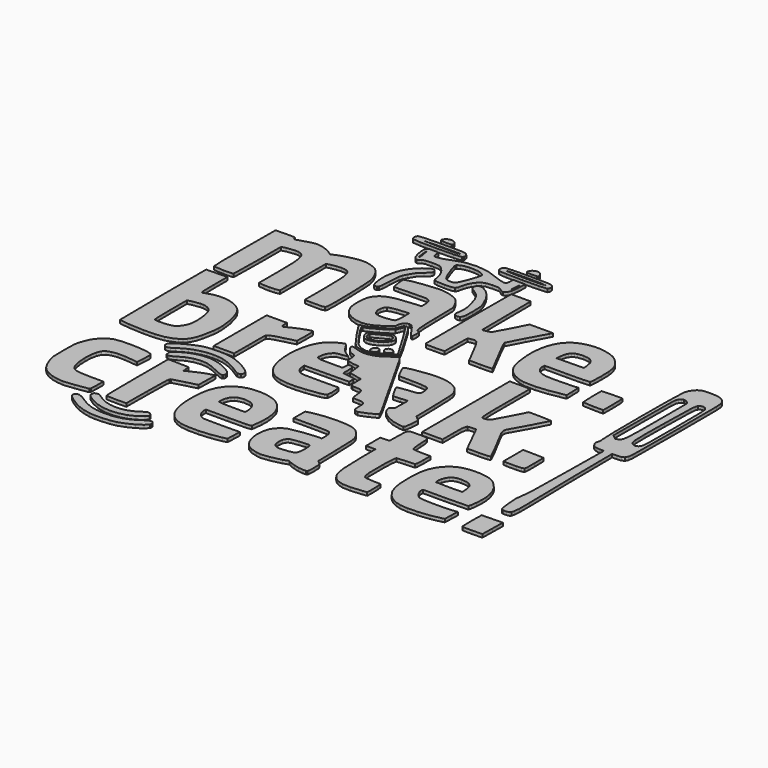
from build123d import *

# Parameters (mm, degrees)
EXTRUDE_DEPTH    = 1
EXTRUDE001_DEPTH = 1
EXTRUDE002_DEPTH = 1
EXTRUDE007_DEPTH = 1
EXTRUDE010_DEPTH = 1
EXTRUDE011_DEPTH = 1
EXTRUDE015_DEPTH = 1
EXTRUDE016_DEPTH = 1
EXTRUDE017_DEPTH = 1
EXTRUDE018_DEPTH = 1
EXTRUDE021_DEPTH = 1
EXTRUDE022_DEPTH = 1
EXTRUDE023_DEPTH = 1
EXTRUDE024_DEPTH = 1
EXTRUDE027_DEPTH = 1
EXTRUDE028_DEPTH = 1
EXTRUDE035_DEPTH = 1
EXTRUDE036_DEPTH = 1
EXTRUDE037_DEPTH = 1
EXTRUDE038_DEPTH = 1
EXTRUDE039_DEPTH = 1
EXTRUDE048_DEPTH = 1
EXTRUDE049_DEPTH = 1
EXTRUDE004_DEPTH = 1
EXTRUDE003_DEPTH = 1
EXTRUDE006_DEPTH = 1
EXTRUDE005_DEPTH = 1
EXTRUDE009_DEPTH = 1
EXTRUDE008_DEPTH = 1
EXTRUDE014_DEPTH = 1
EXTRUDE013_DEPTH = 1
EXTRUDE012_DEPTH = 1
EXTRUDE020_DEPTH = 1
EXTRUDE019_DEPTH = 1
EXTRUDE032_DEPTH = 1
EXTRUDE031_DEPTH = 1
EXTRUDE034_DEPTH = 1
EXTRUDE033_DEPTH = 1
EXTRUDE042_DEPTH = 1
EXTRUDE043_DEPTH = 1
EXTRUDE041_DEPTH = 1
EXTRUDE040_DEPTH = 1
EXTRUDE045_DEPTH = 1
EXTRUDE044_DEPTH = 1
EXTRUDE047_DEPTH = 1
EXTRUDE046_DEPTH = 1
EXTRUDE026_DEPTH = 1
EXTRUDE025_DEPTH = 1
EXTRUDE030_DEPTH = 1
EXTRUDE029_DEPTH = 1


with BuildPart() as extrude_body:
    # Face → Extrude (new body)
    with BuildSketch(Plane(origin=(71.90857, 102.631096, 0), x_dir=(0, -1, 0), z_dir=(0, 0, -1))):
        Polygon((2.521866, 3.007925), (2.068389, 5.107321), (1.397596, 7.013538), (0.442838, 8.881305), (-0.862534, 10.865355), (-1.550903, 11.701456), (-2.166958, 12.188761), (-2.714648, 12.329403), (-3.197924, 12.125515), (-3.525371, 11.625183), (-3.493726, 10.917146), (-3.087401, 9.941467), (-2.290804, 8.638205), (-1.120387, 6.705597), (-0.346118, 4.912925), (0.109441, 3.028671), (0.323726, 0.821315), (0.257545, -2.097342), (-0.250919, -4.746574), (-1.21668, -7.178131), (-2.654754, -9.443765), (-3.309694, -10.487394), (-3.582104, -11.290535), (-3.437426, -11.830266), (-3.064899, -12.199571), (-2.556787, -12.344569), (-2.005354, -12.211375), (-0.958925, -11.224133), (0.2001, -9.487735), (1.265118, -7.361044), (2.029526, -5.202925), (2.389116, -3.298925), (2.606731, -1.034009), (2.658829, 1.199162), align=None)
    extrude(amount=EXTRUDE_DEPTH)


with BuildPart() as extrude001:
    # Face001 → Extrude001 (new body)
    with BuildSketch(Plane(origin=(72.045447, 106.554676, 0), x_dir=(0, -1, 0), z_dir=(0, 0, -1))):
        Polygon((2.182926, 2.113652), (1.595082, 4.424488), (0.58478, 6.689826), (-0.577527, 8.413144), (-1.131165, 8.916383), (-1.621384, 9.097922), (-2.399004, 8.891813), (-2.77251, 8.340917), (-2.717926, 7.546384), (-2.211274, 6.609362), (-1.258993, 5.132498), (-0.565266, 3.567537), (-0.130895, 1.944756), (0.043316, 0.294433), (-0.043435, -1.353156), (-0.391952, -2.967733), (-1.003037, -4.519023), (-1.877494, -5.976748), (-2.552691, -7.066279), (-2.833524, -7.817118), (-2.726448, -8.241733), (-2.461193, -8.678879), (-2.121715, -9.020448), (-1.791974, -9.158328), (-1.311057, -8.952684), (-0.689394, -8.401449), (0.599426, -6.656378), (1.515331, -4.665255), (2.089876, -2.510381), (2.315071, -0.235997), align=None)
    extrude(amount=EXTRUDE001_DEPTH)


with BuildPart() as extrude002:
    # Face002 → Extrude002 (new body)
    with BuildSketch(Plane(origin=(51.139674, 122.033326, 0), x_dir=(0, -1, 0), z_dir=(0, 0, -1))):
        Polygon((12.633626, -0.114581), (12.271635, 1.563776), (11.619022, 3.154762), (10.737406, 4.538886), (9.688406, 5.596659), (8.293321, 6.400409), (6.458586, 7.165069), (5.167235, 7.571226), (3.980656, 7.791904), (-0.054874, 7.899799), (-4.118033, 7.785823), (-5.31121, 7.549526), (-6.657814, 7.108289), (-8.719785, 6.211906), (-10.253104, 4.993069), (-11.47375, 3.581877), (-12.19171, 2.031866), (-12.521659, -0.054961), (-12.578274, -3.076601), (-12.467954, -6.054874), (-12.21823, -8.252239), (-11.834634, -9.637424), (-11.594361, -10.015678), (-11.322694, -10.179161), (-8.582854, -10.089661), (-6.349154, -9.903591), (-6.494304, -9.177851), (-6.820914, -5.817321), (-6.857757, -3.590284), (-6.628327, -1.824606), (-6.130977, -0.513323), (-5.364064, 0.350529), (-4.128268, 0.887704), (-2.340445, 1.226816), (-0.238397, 1.340206), (1.940076, 1.200209), (3.404911, 0.970494), (4.547268, 0.666461), (5.406341, 0.230998), (6.021326, -0.393009), (6.431419, -1.262671), (6.675814, -2.435102), (6.824296, -5.916721), (6.824296, -9.955741), (9.309156, -9.955741), (11.505586, -9.86562), (11.831288, -9.651869), (11.974706, -9.235791), (12.522778, -5.537642), (12.874936, -2.160591), (12.633626, -0.114561), align=None)
    extrude(amount=EXTRUDE002_DEPTH)


with BuildPart() as extrude007:
    # Face007 → Extrude007 (new body)
    with BuildSketch(Plane(origin=(139.822277, 125.366044, 0), x_dir=(0, -1, 0), z_dir=(0, 0, -1))):
        Polygon((15.974494, -0.469943), (15.562108, 0.912029), (14.929478, 2.038041), (14.045843, 2.949423), (12.880444, 3.687507), (11.48787, 4.096377), (9.169083, 4.3932), (1.889034, 4.638917), (-3.336486, 4.643917), (-3.336486, 6.099127), (-3.336486, 7.554337), (-6.100786, 7.554337), (-8.865076, 7.554337), (-8.945076, 6.165277), (-9.025076, 4.776217), (-12.369666, 4.702417), (-14.583587, 4.631605), (-15.238122, 4.520959), (-15.659132, 4.297531), (-15.897687, 3.914354), (-16.004855, 3.324462), (-16.029306, 1.336667), (-16.004976, -0.608131), (-15.901903, -1.188232), (-15.67364, -1.569333), (-15.271745, -1.79833), (-14.647779, -1.92212), (-12.539876, -2.041673), (-10.050289, -2.23756), (-9.125276, -2.542663), (-8.965614, -3.550459), (-8.896836, -5.476353), (-8.892836, -8.056043), (-6.143016, -8.056043), (-4.005832, -7.979339), (-3.487525, -7.876733), (-3.284506, -7.725313), (-3.100676, -4.884323), (-2.925236, -2.211793), (-1.521484, -2.022489), (1.555894, -1.887172), (7.441894, -1.924883), (8.89244, -2.162645), (9.690854, -2.456373), (9.959699, -3.367193), (10.116014, -5.274793), (10.207114, -7.759623), (11.571174, -7.927523), (14.256114, -8.009623), (15.576984, -7.923823), (15.743104, -6.733203), (16.07133, -3.060678), (15.974344, -0.469563), align=None)
    extrude(amount=EXTRUDE007_DEPTH)


with BuildPart() as extrude010:
    # Face010 → Extrude010 (new body)
    with BuildSketch(Plane(origin=(71.060285, 123.967556, 0), x_dir=(0, -1, 0), z_dir=(0, 0, -1))):
        Polygon((14.143806, 4.60702), (14.144036, 4.60703), (13.510249, 4.767462), (11.509876, 4.869066), (1.849416, 4.93776), (-10.307764, 4.93776), (-10.233464, 1.69662), (-10.159164, -1.54453), (-9.034684, -1.62593), (-7.910204, -1.78372), (-8.928984, -3.95132), (-10.04194, -6.471978), (-10.671664, -8.63037), (-10.834814, -9.36618), (-7.587864, -9.29178), (-4.340904, -9.21748), (-3.514904, -5.91019), (-2.494564, -2.1436), (-2.16088, -1.892789), (-1.035009, -1.745539), (5.941156, -1.61444), (14.182506, -1.54454), (14.232006, 1.36588), align=None)
    extrude(amount=EXTRUDE010_DEPTH)


with BuildPart() as extrude011:
    # Face011 → Extrude011 (new body)
    with BuildSketch(Plane(origin=(180.317273, 113.916341, 0), x_dir=(0, -1, 0), z_dir=(0, 0, -1))):
        Polygon((3.663591, 3.215153), (-0.247449, 3.276253), (-3.805979, 3.202053), (-3.880279, -0.046217), (-3.954579, -3.294487), (-0.043779, -3.221187), (3.867031, -3.147887), (3.941631, -0.033967), (3.92624, 2.452641), (3.829948, 3.001429), (3.663701, 3.215223), align=None)
    extrude(amount=EXTRUDE011_DEPTH)


with BuildPart() as extrude015:
    # Face015 → Extrude015 (new body)
    with BuildSketch(Plane(origin=(72.940933, 138.680036, 0), x_dir=(0, -1, 0), z_dir=(0, 0, -1))):
        Polygon((2.657116, 8.758688), (1.725306, 8.935078), (1.299118, 8.872992), (0.914303, 8.633303), (-0.086584, 7.300518), (-0.951254, 5.775323), (-1.608303, 4.20363), (-2.056742, 2.597508), (-2.295585, 0.969028), (-2.323846, -0.66974), (-2.140537, -2.306726), (-1.744672, -3.92986), (-1.135264, -5.527072), (-0.338083, -7.11009), (0.404903, -8.208748), (1.115343, -8.848948), (1.814886, -9.056592), (2.504956, -8.915155), (2.670638, -8.714677), (2.715881, -8.406642), (2.442433, -7.404749), (1.679386, -5.783172), (0.727892, -3.650022), (0.175226, -1.912842), (0.022926, 0.125187), (0.288995, 2.196342), (0.95404, 4.215423), (1.998666, 6.097228), (2.488566, 6.936842), (2.772446, 7.704097), (2.834049, 8.333282), align=None)
    extrude(amount=EXTRUDE015_DEPTH)


with BuildPart() as extrude016:
    # Face016 → Extrude016 (new body)
    with BuildSketch(Plane(origin=(72.965579, 142.565757, 0), x_dir=(0, -1, 0), z_dir=(0, 0, -1))):
        Polygon((3.034227, 12.124464), (2.552544, 12.270612), (2.110627, 12.238694), (1.628565, 11.88967), (1.04918, 11.212284), (-0.246844, 9.154203), (-1.468005, 6.628), (-2.304863, 4.197224), (-2.558407, 2.353413), (-2.663863, -0.036106), (-2.558407, -2.425626), (-2.304863, -4.269446), (-1.795751, -5.881354), (-1.055867, -7.643523), (-0.178401, -9.355762), (0.743457, -10.817876), (1.689953, -11.927577), (2.07356, -12.145591), (2.482407, -12.206946), (2.954682, -12.132276), (3.285642, -11.904245), (3.480439, -11.516822), (3.544227, -10.963976), (3.270146, -10.303918), (2.611187, -9.286996), (1.744232, -7.931048), (0.948206, -6.364168), (0.2989, -4.753013), (-0.127893, -3.264236), (-0.369626, -1.671227), (-0.434659, -0.042997), (-0.327897, 1.59811), (-0.054244, 3.229752), (0.381395, 4.829582), (0.974116, 6.375259), (1.719015, 7.844438), (2.611187, 9.214774), (3.226897, 10.210887), (3.505424, 11.047012), (3.442593, 11.69444), align=None)
    extrude(amount=EXTRUDE016_DEPTH)


with BuildPart() as extrude017:
    # Face017 → Extrude017 (new body)
    with BuildSketch(Plane(origin=(111.754366, 156.956975, 0), x_dir=(0, -1, 0), z_dir=(0, 0, -1))):
        Polygon((15.268425, -6.689514), (15.056802, -6.462018), (14.694361, -6.319434), (13.225945, -6.222444), (11.832934, -6.165097), (11.058901, -5.90353), (10.717748, -5.292203), (10.623375, -4.185574), (10.557275, -2.351424), (9.950734, -2.079543), (8.392885, -1.859314), (6.953918, -1.666506), (6.164724, -1.27653), (5.832555, -0.486574), (5.764665, 0.906176), (5.705594, 1.793095), (5.396726, 2.271814), (4.640583, 2.467358), (3.239685, 2.504756), (1.551725, 2.504756), (1.312325, 3.496946), (0.839105, 5.544406), (0.605285, 6.599676), (-1.379085, 6.867316), (-3.363465, 7.134966), (-3.586265, 8.986486), (-3.83361, 10.351391), (-4.115425, 11.032956), (-5.347835, 11.235566), (-6.349021, 11.293025), (-7.002131, 11.461339), (-7.357261, 11.763885), (-7.464505, 12.224041), (-7.761687, 12.995493), (-8.474881, 13.890605), (-9.336563, 14.631469), (-10.079205, 14.940181), (-10.467668, 14.902493), (-10.597481, 14.67355), (-10.082205, 12.946631), (-9.774917, 11.824748), (-9.641925, 10.69259), (-9.683154, 9.550452), (-9.898525, 8.398629), (-10.287962, 7.237418), (-10.851387, 6.067113), (-12.499895, 3.700406), (-13.227688, 2.816508), (-13.331186, 2.4999), (-13.196822, 2.188516), (-12.021731, 1.346414), (-9.316845, -0.179814), (-1.908515, -4.365144), (5.764405, -8.674494), (11.176405, -11.732524), (13.197905, -12.693234), (13.713288, -11.889853), (14.505916, -10.294373), (15.545945, -7.671824), (15.268215, -6.689514), align=None)
    extrude(amount=EXTRUDE017_DEPTH)


with BuildPart() as extrude018:
    # Face018 → Extrude018 (new body)
    with BuildSketch(Plane(origin=(126.116391, 156.914868, 0), x_dir=(0, -1, 0), z_dir=(0, 0, -1))):
        Polygon((14.530778, -5.490509), (14.058977, -3.278658), (13.151026, -1.18487), (11.95891, 0.516208), (11.303787, 1.133654), (10.634618, 1.549931), (9.763155, 1.908029), (9.211812, 2.006379), (8.871449, 1.836187), (8.632928, 1.388661), (8.440584, 1.01446), (8.070964, 0.817177), (5.847548, 0.727201), (3.313648, 0.727201), (3.492078, 2.926261), (3.670518, 5.125321), (1.836338, 6.233551), (-0.291642, 7.341781), (-0.510224, 7.196486), (-0.689512, 6.700769), (-1.015622, 4.299071), (-1.234276, 2.244331), (-1.446541, 1.182794), (-1.773809, 0.786427), (-2.337472, 0.727201), (-3.458036, 0.78657), (-4.288061, 0.971301), (-4.855043, 1.291332), (-5.186482, 1.756601), (-5.394815, 3.442947), (-5.496512, 6.527871), (-5.522312, 10.608761), (-7.374402, 11.616751), (-9.476642, 12.545711), (-9.855497, 11.960155), (-10.244883, 10.511732), (-10.957872, 5.490121), (-11.088169, 3.420669), (-11.044218, 1.559656), (-10.825749, -0.093669), (-10.432493, -1.54006), (-9.86418, -2.780272), (-9.12054, -3.815056), (-8.201304, -4.645168), (-7.106202, -5.271359), (-6.296344, -5.516917), (-4.926377, -5.679399), (1.187918, -5.879299), (8.427318, -6.019679), (9.141028, -6.875189), (9.854738, -7.730699), (12.088088, -7.562619), (14.165042, -7.243252), (14.601626, -6.996741), (14.669778, -6.681139), (14.530748, -5.490509), align=None)
    extrude(amount=EXTRUDE018_DEPTH)


with BuildPart() as extrude021:
    # Face021 → Extrude021 (new body)
    with BuildSketch(Plane(origin=(96.061819, 152.861968, 0), x_dir=(0, -1, 0), z_dir=(0, 0, -1))):
        Polygon((10.001208, 1.819244), (9.621791, 3.133971), (9.084505, 4.298338), (8.383695, 5.317128), (7.513708, 6.195124), (6.46889, 6.93711), (5.243589, 7.547868), (3.832149, 8.032182), (2.228918, 8.394834), (0.087375, 8.67175), (-2.0576, 8.751305), (-4.156673, 8.642979), (-6.160507, 8.356254), (-8.019768, 7.90061), (-9.685119, 7.285528), (-11.107226, 6.520489), (-12.236752, 5.614974), (-13.085474, 4.595595), (-13.893158, 3.361999), (-14.497092, 2.191321), (-14.734562, 1.360694), (-14.339957, 0.823053), (-13.213202, 0.140534), (-11.835197, -0.742145), (-10.898102, -2.000296), (-9.936732, -3.389356), (-9.657462, -1.644616), (-9.415364, -0.027893), (-9.1149, 0.459314), (-8.594102, 0.981134), (-7.579493, 1.687228), (-6.429232, 2.035234), (-5.249205, 2.155052), (-4.890684, 2.055599), (-4.653251, 1.782183), (-4.441932, 0.510287), (-4.415812, -2.066976), (-4.415812, -6.044041), (-5.474142, -6.044041), (-6.374568, -6.157852), (-6.506331, -6.386641), (-6.532472, -6.806931), (-6.42778, -7.355564), (-6.029233, -7.685267), (-5.210126, -7.847197), (-3.843752, -7.892511), (-2.345652, -7.896511), (-2.172632, -9.020991), (-1.900567, -10.751114), (-1.675001, -11.585976), (-1.32674, -11.849413), (-0.686592, -11.865261), (0.337908, -11.865261), (0.408408, -4.919951), (0.478908, 2.025374), (1.263368, 1.967774), (2.1653, 1.816326), (2.932598, 1.509628), (3.548718, 1.056745), (3.997118, 0.466744), (4.230373, -0.159033), (4.358904, -1.212352), (4.390518, -6.077421), (4.333418, -11.798951), (5.316598, -11.961491), (7.383827, -12.121057), (8.903608, -11.977091), (9.270794, -11.404991), (9.580808, -10.058861), (10.119923, -6.14932), (10.364987, -2.999416), (10.323053, -0.409811), (10.001178, 1.818834), align=None)
    extrude(amount=EXTRUDE021_DEPTH)


with BuildPart() as extrude022:
    # Face022 → Extrude022 (new body)
    with BuildSketch(Plane(origin=(146.522629, 157.753414, 0), x_dir=(0, -1, 0), z_dir=(0, 0, -1))):
        Polygon((-2.302486, 8.168849), (-19.368116, 8.168849), (-19.368116, 4.993849), (-19.368116, 1.818849), (-9.834806, 1.818849), (-3.814974, 1.804854), (-0.905354, 1.635566), (-0.289585, 1.433014), (-0.058626, 1.12003), (-0.227476, 0.067289), (-0.451325, -0.524434), (-1.058986, -1.092674), (-5.017036, -3.266231), (-9.578526, -5.635411), (-9.578526, -9.184321), (-9.402986, -12.733221), (-4.661066, -10.279882), (0.562924, -7.363261), (1.319118, -6.968697), (2.096333, -6.90296), (3.056674, -7.186353), (4.362244, -7.839181), (10.655765, -11.160766), (14.469944, -12.997801), (14.69155, -12.126966), (14.763134, -9.431051), (14.763134, -5.864291), (10.132924, -3.556471), (5.502724, -1.248651), (5.502724, -0.226671), (5.579632, 0.955479), (5.761866, 1.319023), (6.116487, 1.562793), (7.572485, 1.786757), (10.406824, 1.818859), (14.763134, 1.818859), (14.763134, 4.993859), (14.763134, 8.168859), align=None)
    extrude(amount=EXTRUDE022_DEPTH)


with BuildPart() as extrude023:
    # Face023 → Extrude023 (new body)
    with BuildSketch(Plane(origin=(166.728909, 147.04216, 0), x_dir=(0, -1, 0), z_dir=(0, 0, -1))):
        Polygon((3.87605, 2.247529), (3.75535, 3.239719), (-0.07328, 3.239719), (-3.90191, 3.239719), (-3.82761, -0.001431), (-3.75331, -3.242571), (-0.20265, -3.316671), (2.370861, -3.3032), (3.57221, -3.166601), (3.75621, -2.407125), (3.888487, -0.889861), (3.87607, 2.247579), align=None)
    extrude(amount=EXTRUDE023_DEPTH)


with BuildPart() as extrude024:
    # Face024 → Extrude024 (new body)
    with BuildSketch(Plane(origin=(75.483457, 158.776327, 0), x_dir=(0, -1, 0), z_dir=(0, 0, -1))):
        Polygon((1.763137, 5.127602), (-8.555613, 5.127602), (-8.555613, 1.952602), (-8.555613, -1.222398), (-7.512903, -1.222398), (-6.73949, -1.28781), (-6.350234, -1.501712), (-6.327003, -1.890602), (-6.651663, -2.480978), (-7.313828, -3.735624), (-8.11888, -5.624692), (-8.798605, -7.47304), (-9.084783, -8.605528), (-9.023873, -8.928395), (-8.654049, -9.089903), (-5.865113, -9.101898), (-2.645433, -9.027598), (-1.818273, -5.720298), (-1.19672, -3.375519), (-0.714603, -2.000572), (-0.264766, -1.364193), (0.259947, -1.235118), (6.459487, -1.251618), (12.081887, -1.222318), (12.081887, 1.952682), (12.081887, 5.127682), align=None)
    extrude(amount=EXTRUDE024_DEPTH)


with BuildPart() as extrude027:
    # Face027 → Extrude027 (new body)
    with BuildSketch(Plane(origin=(102.353236, 169.537373, 0), x_dir=(0, -1, 0), z_dir=(0, 0, -1))):
        Polygon((0.551733, 1.024486), (-0.258805, 1.062875), (-0.896398, 0.658391), (-1.187628, 0.007989), (-1.149164, -0.347882), (-0.959077, -0.691374), (-0.577705, -0.959507), (-0.082985, -1.062588), (0.420845, -0.996737), (0.829543, -0.758074), (1.103797, -0.290107), (1.137237, 0.23789), (0.947377, 0.713534), (0.551733, 1.024446), align=None)
    extrude(amount=EXTRUDE027_DEPTH)


with BuildPart() as extrude028:
    # Face028 → Extrude028 (new body)
    with BuildSketch(Plane(origin=(105.310946, 171.21306, 0), x_dir=(0, -1, 0), z_dir=(0, 0, -1))):
        Polygon((1.05899, 0.496136), (0.41842, 1.100766), (-0.010164, 1.237406), (-0.396983, 1.196076), (-0.965996, 0.716093), (-1.129967, -0.066008), (-1.010481, -0.484986), (-0.73024, -0.877054), (-0.337097, -1.179827), (0.036608, -1.269934), (0.408786, -1.146576), (0.79735, -0.808954), (1.184393, -0.187636), (1.05899, 0.496156), align=None)
    extrude(amount=EXTRUDE028_DEPTH)


with BuildPart() as extrude035:
    # Face035 → Extrude035 (new body)
    with BuildSketch(Plane(origin=(61.174937, 192.858103, 0), x_dir=(0, -1, 0), z_dir=(0, 0, -1))):
        Polygon((13.360873, 17.003852), (10.300385, 17.198076), (1.167193, 17.214002), (-10.854051, 17.145102), (-10.928591, 14.036242), (-10.916598, 11.366901), (-10.764824, 10.995056), (-10.46557, 10.927392), (-10.07857, 10.848843), (-9.980138, 10.475393), (-10.721757, 8.016972), (-11.277461, 6.156626), (-11.508827, 4.841972), (-11.386202, 3.622289), (-11.054435, 2.281222), (-10.569109, 0.997335), (-9.985806, -0.050808), (-9.234236, -1.117068), (-9.851681, -2.477778), (-10.425105, -4.072726), (-10.958132, -6.098199), (-11.351742, -8.121544), (-11.506917, -9.710108), (-11.400313, -10.918157), (-11.099769, -12.203523), (-10.642293, -13.442937), (-10.064889, -14.513128), (-9.19438, -15.399526), (-7.86855, -16.243529), (-6.282458, -16.941824), (-4.631164, -17.391098), (-1.405453, -17.626402), (4.044878, -17.812992), (9.404063, -17.89362), (12.356333, -17.811038), (12.88123, -17.685802), (13.176497, -17.494122), (13.395393, -16.516028), (13.400393, -13.348128), (13.313393, -11.297608), (5.981543, -11.297608), (-0.186209, -11.197703), (-2.19697, -11.027435), (-3.622503, -10.736609), (-4.560446, -10.294969), (-5.108438, -9.672254), (-5.364116, -8.838207), (-5.425117, -7.762568), (-5.320427, -6.226776), (-5.075883, -4.815318), (-4.731752, -3.492398), (4.245573, -3.492398), (13.222903, -3.492398), (13.457143, -2.017548), (13.567012, -0.457085), (13.502243, 1.223602), (13.313083, 2.989892), (5.991963, 2.990892), (-0.181652, 3.105711), (-2.21153, 3.294331), (-3.661793, 3.611511), (-4.626195, 4.088065), (-5.198491, 4.754809), (-5.472434, 5.642556), (-5.541779, 6.782122), (-5.186114, 9.405562), (-4.832273, 10.662332), (3.798443, 10.666332), (13.004413, 10.824232), (13.324846, 10.974544), (13.494113, 11.367165), (13.556433, 13.851622), (13.360753, 17.003732), align=None)
    extrude(amount=EXTRUDE035_DEPTH)


with BuildPart() as extrude036:
    # Face036 → Extrude036 (new body)
    with BuildSketch(Plane(origin=(117.987, 194.116584, 0), x_dir=(0, -1, 0), z_dir=(0, 0, -1))):
        Polygon((14.027094, 8.07565), (-2.848696, 8.14895), (-19.120569, 8.07585), (-19.120569, 5.03314), (-19.120569, 1.99044), (-9.526825, 1.92094), (0.066924, 1.85154), (-0.104086, 0.73036), (-0.482776, -0.6554), (-5.071536, -3.16894), (-9.452619, -5.4179), (-9.457919, -9.06271), (-9.463219, -12.70753), (-8.603323, -12.26434), (-3.057947, -9.21484), (1.942304, -6.60852), (4.400574, -7.76581), (14.462024, -12.95852), (14.555224, -9.33247), (14.481624, -5.70642), (9.983704, -3.3967), (7.198985, -1.932211), (5.793243, -0.982739), (5.478969, -0.576973), (5.355216, -0.15097), (5.473644, 0.96041), (5.639684, 1.84545), (10.060654, 1.91795), (14.481624, 1.99045), (14.556324, 4.95981), (14.540354, 7.55193), (14.369, 7.936349), (14.027164, 8.07558), align=None)
    extrude(amount=EXTRUDE036_DEPTH)


with BuildPart() as extrude037:
    # Face037 → Extrude037 (new body)
    with BuildSketch(Plane(origin=(162.329361, 183.384766, 0), x_dir=(0, -1, 0), z_dir=(0, 0, -1))):
        Polygon((3.705596, 3.161701), (-0.097564, 3.338081), (-3.724344, 3.338081), (-3.852294, 0.229231), (-3.869994, -3.078059), (-2.669756, -3.218207), (0.061126, -3.276499), (3.881966, -3.276499), (3.881966, -0.145599), (3.705576, 3.161701), align=None)
    extrude(amount=EXTRUDE037_DEPTH)


with BuildPart() as extrude038:
    # Face038 → Extrude038 (new body)
    with BuildSketch(Plane(origin=(82.793325, 204.403755, 0), x_dir=(0, -1, 0), z_dir=(0, 0, -1))):
        Polygon((8.106475, 2.11329), (7.212107, 2.416875), (5.609938, 2.69187), (3.611327, 2.806545), (1.696679, 2.664272), (-0.115689, 2.273483), (-1.80746, 1.642607), (-3.360317, 0.780077), (-4.755943, -0.305678), (-5.976021, -1.606228), (-7.002234, -3.11314), (-7.283644, -3.820388), (-7.246955, -4.381858), (-6.901571, -4.774079), (-6.256896, -4.97358), (-5.872568, -4.950652), (-5.490493, -4.741597), (-4.421941, -3.51837), (-3.078346, -2.076636), (-1.184001, -0.92399), (0.067086, -0.31319), (1.067878, 0.011506), (4.362692, 0.22662), (6.912408, 0.371329), (8.166085, 0.58974), (8.412531, 0.92664), (8.482886, 1.3404), (8.37994, 1.759717), (8.106485, 2.11329), align=None)
    extrude(amount=EXTRUDE038_DEPTH)


with BuildPart() as extrude039:
    # Face039 → Extrude039 (new body)
    with BuildSketch(Plane(origin=(105.485935, 204.520297, 0), x_dir=(0, -1, 0), z_dir=(0, 0, -1))):
        Polygon((8.182317, -0.460065), (7.772319, -0.196206), (7.391792, -0.167045), (6.295041, -0.428403), (4.961461, -0.49568), (3.476067, -0.387327), (1.923875, -0.121795), (-1.040835, 0.807), (-2.283323, 1.43336), (-3.252543, 2.143095), (-4.357684, 3.662355), (-4.830166, 4.458387), (-5.290053, 4.948248), (-5.77638, 5.16092), (-6.328183, 5.125385), (-6.83846, 4.831188), (-7.140198, 4.308678), (-7.207365, 3.641788), (-7.013928, 2.914455), (-6.088909, 1.422949), (-4.746139, 0.088826), (-2.988999, -1.085177), (-0.82087, -2.096325), (0.2953, -2.495895), (1.302631, -2.719194), (4.405457, -2.837635), (6.57787, -2.789201), (7.855992, -2.597109), (8.460809, -2.191175), (8.613307, -1.501215), (8.486706, -0.943684), align=None)
    extrude(amount=EXTRUDE039_DEPTH)


with BuildPart() as extrude048:
    # Face048 → Extrude048 (new body)
    with BuildSketch(Plane(origin=(80.652815, 225.380881, 0), x_dir=(0, -1, 0), z_dir=(0, 0, -1))):
        Polygon((0.73307, 1.73606), (0.455586, 1.952045), (0.02046, 1.859495), (-0.454874, 1.514817), (-0.852982, 0.97442), (-1.098836, 0.00247), (-0.920725, -0.918085), (-0.39833, -1.60446), (0.388668, -1.87387), (0.658324, -1.821372), (0.809706, -1.596072), (0.878048, -0.22023), align=None)
    extrude(amount=EXTRUDE048_DEPTH)


with BuildPart() as extrude049:
    # Face049 → Extrude049 (new body)
    with BuildSketch(Plane(origin=(107.397526, 225.412638, 0), x_dir=(0, -1, 0), z_dir=(0, 0, -1))):
        Polygon((0.401526, 1.852086), (-0.175579, 1.690664), (-0.68472, 1.267287), (-1.047613, 0.673287), (-1.185973, -4e-06), (-1.047613, -0.673294), (-0.68472, -1.26729), (-0.175579, -1.690664), (0.401526, -1.852084), (0.686189, -1.79834), (0.845648, -1.554428), (0.930693, -4e-06), (0.845647, 1.554429), (0.686188, 1.798342), align=None)
    extrude(amount=EXTRUDE049_DEPTH)


with BuildPart() as extrude004:
    # Face004 → Extrude004 (new body)
    with BuildSketch(Plane(origin=(118.09301, 117.464133, 0), x_dir=(0, 1, 0), z_dir=(0, 0, 1))):
        Polygon((-2.754213, -1.4056), (-2.463029, -2.601348), (-1.944891, -3.258027), (-0.939639, -3.535098), (0.812887, -3.59202), (2.437491, -3.505192), (2.791682, -3.368755), (2.959677, -3.1455), (2.993896, -2.048247), (2.835627, -0.03721), (2.473318, 2.276706), (2.223581, 2.820137), (1.847467, 3.22044), (1.005588, 3.688848), (-0.235163, 3.81632), (-1.121013, 3.754963), (-1.826995, 3.55933), (-2.361475, 3.212075), (-2.732822, 2.695854), (-2.949401, 1.99332), (-3.019582, 1.08713), align=None)
    extrude(amount=-EXTRUDE004_DEPTH)


with BuildPart() as cut:
    # Face003 → Extrude003 (new body)
    with BuildSketch(Plane(origin=(118.994847, 120.923125, 0), x_dir=(0, -1, 0), z_dir=(0, 0, -1))):
        Polygon((11.529425, 5.511907), (11.010515, 7.448106), (10.072715, 8.911857), (9.243347, 9.683078), (8.19954, 10.313526), (6.990544, 10.794519), (5.66561, 11.117373), (4.273987, 11.273408), (2.864927, 11.25394), (1.48768, 11.050287), (0.191495, 10.653767), (-0.828147, 10.061141), (-1.766509, 9.181353), (-2.522994, 8.129083), (-2.997005, 7.019007), (-3.694358, 3.019272), (-4.073035, -1.036533), (-4.075035, -2.425593), (-5.500935, -2.425593), (-6.739518, -2.306924), (-7.551455, -1.917963), (-7.910703, -1.534399), (-8.096344, -0.771557), (-8.176075, 4.101307), (-8.176075, 9.612947), (-10.407745, 9.612947), (-12.639415, 9.612947), (-12.978505, 8.290027), (-13.588382, 4.764909), (-13.826588, 0.86826), (-13.683602, -2.657871), (-13.466187, -4.050101), (-13.149905, -5.071433), (-12.539726, -6.118014), (-11.729561, -7.039825), (-10.749913, -7.808063), (-9.631285, -8.393923), (-8.7613, -8.65307), (-7.386066, -8.822467), (-1.337485, -9.028343), (5.765685, -9.172473), (6.345365, -9.900073), (6.71991, -10.306096), (7.169016, -10.52373), (9.212385, -10.627683), (11.13852, -10.542378), (11.500899, -10.390404), (11.659185, -10.125243), (11.698695, -9.154511), (11.498786, -7.675398), (11.134644, -6.095642), (10.681455, -4.822983), (10.116835, -3.648493), (10.708225, -1.953993), (11.464746, 1.396265), (11.766835, 4.188987), (11.529625, 5.511907), align=None)
    extrude(amount=EXTRUDE003_DEPTH)

    # Cut: cut Extrude004
    add(extrude004.part, mode=Mode.SUBTRACT)


with BuildPart() as extrude006:
    # Face006 → Extrude006 (new body)
    with BuildSketch(Plane(origin=(161.630872, 126.559559, 0), x_dir=(0, 1, 0), z_dir=(0, 0, 1))):
        Polygon((-0.832409, -4.070788), (0.80358, -3.795791), (1.427487, -3.482729), (1.927303, -3.046599), (2.307002, -2.482884), (2.570558, -1.787065), (2.765141, 0.018962), (2.666376, 1.383447), (2.354857, 2.366543), (1.763876, 3.094739), (0.826721, 3.694522), (-0.024995, 4.020352), (-0.927603, 4.20077), (-1.706024, 4.215456), (-2.185179, 4.044092), (-2.295419, -0.123098), (-2.222619, -4.107278), align=None)
    extrude(amount=-EXTRUDE006_DEPTH)


with BuildPart() as cut001:
    # Face005 → Extrude005 (new body)
    with BuildSketch(Plane(origin=(161.301945, 122.387191, 0), x_dir=(0, -1, 0), z_dir=(0, 0, -1))):
        Polygon((12.867961, 3.060585), (12.448606, 4.487953), (11.863332, 5.767743), (11.120297, 6.885228), (10.227661, 7.825685), (8.525134, 9.008838), (6.477499, 9.776118), (3.855914, 10.185178), (0.431541, 10.293675), (-2.350778, 10.19854), (-4.495759, 9.915901), (-6.251752, 9.394562), (-7.867109, 8.583325), (-9.03277, 7.773247), (-10.020278, 6.840936), (-10.831832, 5.781372), (-11.469628, 4.589536), (-11.935865, 3.26041), (-12.23274, 1.788973), (-12.362453, 0.170208), (-12.327199, -1.600905), (-12.092832, -3.727666), (-11.642535, -5.366475), (-10.892128, -6.727657), (-9.757429, -8.021535), (-8.453283, -9.094877), (-6.980304, -9.894785), (-5.2713, -10.44987), (-3.259079, -10.788745), (-1.703174, -10.818592), (0.274077, -10.697909), (2.029736, -10.484276), (2.920861, -10.235275), (3.077371, -3.155505), (3.077371, 3.765875), (3.738831, 3.842075), (4.517714, 3.693614), (5.473915, 3.20762), (6.367856, 2.534223), (6.959961, 1.823555), (7.188901, 0.132406), (7.295901, -3.052957), (7.266633, -6.508527), (7.086771, -9.010295), (6.904381, -10.144765), (9.338091, -10.068665), (11.771791, -9.992565), (11.976421, -9.225105), (12.599544, -6.107344), (12.985336, -2.61406), (13.089555, 0.645097), (12.867961, 3.060475), align=None)
    extrude(amount=EXTRUDE005_DEPTH)

    # Cut001: cut Extrude006
    add(extrude006.part, mode=Mode.SUBTRACT)


with BuildPart() as extrude009:
    # Face009 → Extrude009 (new body)
    with BuildSketch(Plane(origin=(93.959807, 126.511409, 0), x_dir=(0, 1, 0), z_dir=(0, 0, 1))):
        Polygon((-1.446899, -4.175818), (-0.444956, -4.090705), (0.49032, -3.853387), (1.294336, -3.486391), (1.902501, -3.012248), (2.350963, -2.367821), (2.658406, -1.575888), (2.858414, 0.240088), (2.518874, 2.014861), (2.151885, 2.75529), (1.656141, 3.327612), (0.834744, 3.779482), (-0.26555, 4.117775), (-1.326539, 4.270235), (-2.030019, 4.164612), (-2.2334, 2.955531), (-2.306799, -0.091868), (-2.306799, -4.177298), align=None)
    extrude(amount=-EXTRUDE009_DEPTH)


with BuildPart() as cut002:
    # Face008 → Extrude008 (new body)
    with BuildSketch(Plane(origin=(93.582264, 122.412255, 0), x_dir=(0, -1, 0), z_dir=(0, 0, -1))):
        Polygon((12.659195, 3.943629), (12.093611, 5.496501), (11.288344, 6.820142), (10.230853, 7.921252), (8.9086, 8.806534), (7.309046, 9.482687), (5.419651, 9.956414), (3.227877, 10.234414), (0.721185, 10.323389), (-2.602575, 10.167355), (-5.280414, 9.677453), (-7.4781, 8.807478), (-9.361405, 7.511229), (-10.230357, 6.614358), (-10.959057, 5.542518), (-11.542174, 4.316991), (-11.974378, 2.959058), (-12.250336, 1.489998), (-12.364719, -0.068907), (-12.312196, -1.696377), (-12.087435, -3.371131), (-11.583439, -5.241063), (-10.812388, -6.837924), (-9.772754, -8.162681), (-8.463011, -9.216305), (-6.881634, -9.999766), (-5.027097, -10.514034), (-2.897872, -10.760077), (-0.492435, -10.738866), (2.752415, -10.345976), (2.923509, -9.924188), (3.030895, -8.751933), (3.102435, -3.174681), (3.102435, 3.779539), (4.070605, 3.751439), (4.832355, 3.611213), (5.590301, 3.251877), (6.300947, 2.700416), (6.920795, 1.983819), (7.131524, 1.468236), (7.24927, 0.451149), (7.277715, -4.366641), (7.219615, -10.131516), (9.526635, -10.055216), (11.833645, -9.978916), (12.158705, -8.661666), (12.702822, -5.513011), (12.985432, -1.913489), (12.979792, 1.46324), (12.659155, 3.943519), align=None)
    extrude(amount=EXTRUDE008_DEPTH)

    # Cut002: cut Extrude009
    add(extrude009.part, mode=Mode.SUBTRACT)


with BuildPart() as extrude014:
    # Face014 → Extrude014 (new body)
    with BuildSketch(Plane(origin=(183.334495, 182.711435, 0), x_dir=(0, 1, 0), z_dir=(0, 0, 1))):
        Polygon((-12.132535, -1.381445), (-11.274669, -1.54333), (-9.140288, -1.646961), (0.400885, -1.718235), (10.717917, -1.646195), (12.324636, -1.495434), (12.902445, -1.214215), (13.301255, -0.68758), (13.436884, -0.10354), (13.308968, 0.482645), (12.917145, 1.015715), (12.335539, 1.300011), (10.726292, 1.475615), (0.644705, 1.716635), (-6.728078, 1.814865), (-10.63274, 1.722768), (-11.664975, 1.572525), (-12.28672, 1.335316), (-12.650153, 0.998012), (-12.907455, 0.547485), (-13.069951, -0.002175), (-12.993201, -0.511261), (-12.679844, -0.973204), (-12.132515, -1.381435), align=None)
    extrude(amount=-EXTRUDE014_DEPTH)


with BuildPart() as fusion:
    # Face013 → Extrude013 (new body)
    with BuildSketch(Plane(origin=(177.629011, 182.83476, 0), x_dir=(0, 1, 0), z_dir=(0, 0, 1))):
        Polygon((-13.11397, -0.426919), (-12.849328, -0.84906), (-12.469247, -1.169023), (-11.827127, -1.400952), (-10.776371, -1.558994), (-6.86256, -1.709993), (0.44497, -1.735179), (12.18619, -1.735179), (12.78328, -1.099619), (13.181697, -0.498763), (13.27239, 0.105965), (13.058463, 0.684748), (12.54302, 1.207771), (11.874139, 1.473437), (10.16344, 1.62283), (-0.14544, 1.726631), (-12.17244, 1.763031), (-12.7793, 1.057521), (-13.343976, 0.26509), (-13.11372, -0.426879), align=None)
    extrude(amount=-EXTRUDE013_DEPTH)

    # Fusion: union Extrude014
    add(extrude014.part)


with BuildPart() as cut003:
    # Face012 → Extrude012 (new body)
    with BuildSketch(Plane(origin=(180.46567, 173.408902, 0), x_dir=(0, -1, 0), z_dir=(0, 0, -1))):
        Polygon((50.287992, 1.24235), (50.058031, 1.535933), (49.533956, 1.745743), (46.786712, 2.11841), (43.746587, 2.325458), (41.531372, 2.06341), (39.881927, 1.865516), (36.906425, 1.714973), (25.061062, 1.48913), (10.575122, 1.30812), (10.575122, 2.51524), (10.494445, 3.572844), (10.244155, 4.383006), (9.811857, 4.971111), (9.185162, 5.36254), (8.39505, 5.555586), (7.610292, 5.39524), (6.859278, 5.237298), (6.170582, 5.34964), (1.030473, 5.548941), (-9.47083, 5.604009), (-20.11423, 5.521592), (-25.68063, 5.30844), (-26.786989, 4.93437), (-27.775476, 4.338626), (-28.572835, 3.576895), (-29.105812, 2.70486), (-29.319481, 1.468515), (-29.336853, -0.58488), (-29.211205, -2.269773), (-28.916766, -3.427219), (-28.353917, -4.292237), (-27.423039, -5.09985), (-26.719524, -5.411425), (-24.666961, -5.568751), (-10.373758, -5.60125), (7.761542, -5.45992), (9.171675, -5.276592), (10.031008, -4.832992), (10.459004, -4.01175), (10.575122, -2.69549), (10.575122, -1.25945), (25.854812, -1.38691), (43.251162, -1.68614), (47.235132, -1.69055), (48.991781, -1.53296), (49.957332, -1.3049), (50.227769, -0.894722), (50.391203, -0.193406), (50.420367, 0.588983), (50.287992, 1.24238), align=None)
    extrude(amount=EXTRUDE012_DEPTH)

    # Cut003: cut Fusion
    add(fusion.part, mode=Mode.SUBTRACT)


with BuildPart() as extrude020:
    # Face020 → Extrude020 (new body)
    with BuildSketch(Plane(origin=(54.232648, 155.227288, 0), x_dir=(0, 1, 0), z_dir=(0, 0, 1))):
        Polygon((-6.308868, -2.051977), (-5.685213, -2.884431), (-4.770554, -3.594701), (-3.635487, -4.139557), (-2.350608, -4.475767), (-0.737622, -4.574441), (1.235101, -4.477013), (3.135439, -4.222725), (4.531272, -3.850817), (5.27979, -3.451088), (5.882564, -2.936556), (6.340482, -2.304242), (6.654429, -1.551164), (6.825293, -0.674346), (6.853958, 0.329194), (6.488242, 2.728353), (6.183782, 3.985123), (-0.229088, 3.985123), (-5.66153, 3.912771), (-6.5296, 3.773502), (-6.779748, 3.522103), (-6.886809, 2.367791), (-6.813543, 0.693341), (-6.60566, -0.960249), align=None)
    extrude(amount=-EXTRUDE020_DEPTH)


with BuildPart() as cut004:
    # Face019 → Extrude019 (new body)
    with BuildSketch(Plane(origin=(53.209189, 157.10527, 0), x_dir=(0, -1, 0), z_dir=(0, 0, -1))):
        Polygon((14.35215, 6.104264), (13.97118, 9.279264), (-3.03866, 9.443964), (-19.88397, 9.443964), (-19.95827, 6.202814), (-20.03257, 2.961664), (-14.86506, 2.961664), (-10.757439, 2.891108), (-9.933517, 2.785552), (-9.69754, 2.617714), (-9.94157, 2.022394), (-10.6034, -0.270126), (-10.802787, -1.629974), (-10.847463, -2.975504), (-10.74258, -4.286989), (-10.49329, -5.544705), (-10.104746, -6.728926), (-9.5821, -7.819926), (-8.930504, -8.797982), (-8.15511, -9.643366), (-7.237314, -10.29465), (-6.002772, -10.87898), (-2.872521, -11.787303), (0.6575, -12.249381), (2.391755, -12.275903), (4.00915, -12.146256), (7.864372, -11.448059), (9.30083, -11.014747), (10.47353, -10.490431), (11.43023, -9.848965), (12.218688, -9.064203), (12.886662, -8.109999), (13.48191, -6.960206), (14.166934, -4.856992), (14.530785, -2.121527), (14.587751, 1.460716), (14.35212, 6.104264), align=None)
    extrude(amount=EXTRUDE019_DEPTH)

    # Cut004: cut Extrude020
    add(extrude020.part, mode=Mode.SUBTRACT)


with BuildPart() as extrude032:
    # Face032 → Extrude032 (new body)
    with BuildSketch(Plane(origin=(93.486651, 186.980423, 0), x_dir=(0, 1, 0), z_dir=(0, 0, 1))):
        Polygon((-2.167243, -2.953174), (-1.391401, -3.242099), (0.492297, -3.327534), (2.841157, -3.327534), (2.841157, -2.592994), (2.568597, 0.383576), (2.316215, 1.908522), (1.93624, 2.8493), (1.310808, 3.378198), (0.322057, 3.667506), (-0.747055, 3.685317), (-1.682457, 3.366743), (-2.375441, 2.772706), (-2.717303, 1.964126), (-2.762696, 0.722315), (-2.653694, -0.801323), (-2.438982, -2.171561), align=None)
    extrude(amount=-EXTRUDE032_DEPTH)


with BuildPart() as cut005:
    # Face031 → Extrude031 (new body)
    with BuildSketch(Plane(origin=(93.88836, 191.308099, 0), x_dir=(0, -1, 0), z_dir=(0, 0, -1))):
        Polygon((12.354789, 5.021695), (11.748487, 6.854545), (10.735287, 8.380294), (9.367925, 9.539463), (7.699139, 10.272575), (6.268058, 10.501169), (4.509913, 10.554229), (2.785253, 10.438266), (1.454629, 10.159795), (0.406821, 9.68619), (-0.474997, 9.043393), (-1.206309, 8.196052), (-1.802601, 7.108815), (-2.279358, 5.74633), (-2.652065, 4.073244), (-3.147271, -0.346135), (-3.325361, -2.925825), (-4.697011, -2.925825), (-5.785547, -2.832236), (-6.562667, -2.537143), (-7.062101, -2.019055), (-7.317581, -1.256485), (-7.235391, 4.111755), (-7.132378, 7.327899), (-7.204401, 8.780785), (-9.431609, 9.149665), (-11.462144, 9.321305), (-11.748597, 8.567885), (-12.14604, 6.902078), (-12.57567, 4.255151), (-13.062755, -0.682595), (-12.933418, -2.458416), (-12.575563, -4.235702), (-12.042078, -5.815245), (-11.385849, -6.99784), (-10.445946, -7.863121), (-9.165151, -8.65998), (-7.641599, -9.40812), (-0.471461, -9.54042), (3.88576, -9.650643), (6.306185, -9.834575), (7.348638, -10.177184), (7.527756, -10.434546), (7.571939, -10.76344), (7.86543, -11.041851), (8.828709, -11.12386), (10.037095, -11.047551), (10.318567, -10.936747), (10.381021, -10.760304), (9.837274, -10.158887), (8.382639, -9.14007), (6.885328, -8.081101), (6.063929, -7.263312), (5.811142, -6.531955), (6.019669, -5.732285), (6.388107, -5.25642), (6.978836, -4.869114), (7.713517, -4.608653), (8.513809, -4.513325), (8.873612, -4.402473), (9.298459, -4.020539), (10.605139, -2.147145), (11.79761, -0.083285), (12.433236, 1.580382), (12.592227, 3.172496), align=None)
    extrude(amount=EXTRUDE031_DEPTH)

    # Cut005: cut Extrude032
    add(extrude032.part, mode=Mode.SUBTRACT)


with BuildPart() as extrude034:
    # Face034 → Extrude034 (new body)
    with BuildSketch(Plane(origin=(143.817457, 196.097973, 0), x_dir=(0, 1, 0), z_dir=(0, 0, 1))):
        Polygon((-0.852433, -4.099493), (0.803457, -3.76659), (1.434307, -3.445593), (1.940049, -3.014669), (2.3254, -2.46865), (2.595076, -1.802363), (2.806268, -0.088303), (2.58846, 1.652342), (2.311343, 2.341785), (1.919019, 2.914143), (1.409187, 3.372045), (0.779547, 3.718116), (-0.848353, 4.085277), (-2.321423, 4.207437), (-2.248423, 0.006907), (-2.175423, -4.193613), align=None)
    extrude(amount=-EXTRUDE034_DEPTH)


with BuildPart() as cut006:
    # Face033 → Extrude033 (new body)
    with BuildSketch(Plane(origin=(143.463694, 191.889985, 0), x_dir=(0, -1, 0), z_dir=(0, 0, -1))):
        Polygon((12.923305, 2.270704), (12.519906, 3.870953), (11.826265, 5.577994), (11.176175, 6.674512), (10.398375, 7.605162), (9.469076, 8.381134), (8.364486, 9.013615), (7.060817, 9.513795), (5.534279, 9.892863), (1.717435, 10.332414), (-0.855802, 10.358023), (-3.199067, 10.132858), (-5.299061, 9.663329), (-7.142487, 8.955843), (-8.716044, 8.016809), (-10.006435, 6.852636), (-11.00036, 5.469731), (-11.684521, 3.874504), (-12.157021, 2.019911), (-12.384987, 0.272191), (-12.372545, -1.434829), (-12.123824, -3.167326), (-11.684527, -4.905021), (-11.12933, -6.25437), (-10.368918, -7.383645), (-9.313977, -8.461116), (-7.862849, -9.572417), (-6.302872, -10.231853), (-4.246402, -10.543519), (-1.305795, -10.611506), (1.508394, -10.537741), (2.795245, -10.390266), (2.93593, -8.215556), (2.994445, -3.267796), (2.994445, 3.654714), (3.727655, 3.739014), (4.566127, 3.642356), (5.407894, 3.212009), (6.158264, 2.515022), (6.722545, 1.618444), (7.130486, 0.050442), (7.227785, -2.950136), (7.095495, -8.251496), (6.963195, -10.103576), (9.385075, -10.179276), (11.806945, -10.254976), (12.109635, -8.327156), (12.649315, -5.208716), (13.006008, -1.440986), (12.923305, 2.270824), align=None)
    extrude(amount=EXTRUDE033_DEPTH)

    # Cut006: cut Extrude034
    add(extrude034.part, mode=Mode.SUBTRACT)


with BuildPart() as extrude042:
    # Face042 → Extrude042 (new body)
    with BuildSketch(Plane(origin=(79.947089, 216.148142, 0), x_dir=(0, 1, 0), z_dir=(0, 0, 1))):
        Polygon((0.112384, -0.165176), (1.964468, 0.238274), (1.553393, 0.304949), (0.439393, 0.234252), (-1.495891, -0.090846), (-1.687075, -0.260657), (-1.5131, -0.328242), (0.112384, -0.165146), align=None)
    extrude(amount=-EXTRUDE042_DEPTH)


with BuildPart() as extrude043:
    # Face043 → Extrude043 (new body)
    with BuildSketch(Plane(origin=(108.513874, 216.660387, 0), x_dir=(0, 1, 0), z_dir=(0, 0, 1))):
        Polygon((0.523468, -0.180196), (1.489623, -0.170458), (1.650006, -0.098956), (-0.248234, 0.145574), (-1.438761, 0.198587), (-1.593506, 0.157485), (-1.438859, 0.072274), (0.523468, -0.180156), align=None)
    extrude(amount=-EXTRUDE043_DEPTH)


with BuildPart() as fusion001:
    # Face041 → Extrude041 (new body)
    with BuildSketch(Plane(origin=(93.984529, 214.071426, 0), x_dir=(0, 1, 0), z_dir=(0, 0, 1))):
        Polygon((-4.340002, -1.692566), (-3.15464, -2.316466), (-1.084096, -3.135481), (1.044764, -3.848041), (2.405074, -4.152576), (2.940637, -3.86731), (3.35415, -3.101554), (3.638172, -1.990371), (3.785259, -0.668821), (3.787969, 0.728032), (3.63886, 2.065127), (3.330488, 3.207402), (2.855411, 4.019794), (2.588373, 4.176534), (2.126575, 4.162944), (0.045893, 3.523604), (-2.574979, 2.546457), (-4.08254, 1.7664), (-4.771187, 0.97244), (-4.935314, -0.046416), (-4.800957, -1.023338), align=None)
    extrude(amount=-EXTRUDE041_DEPTH)

    # Fusion001: union Extrude042, Extrude043
    add(extrude042.part)
    add(extrude043.part)


with BuildPart() as cut007:
    # Face040 → Extrude040 (new body)
    with BuildSketch(Plane(origin=(94.048949, 214.723927, 0), x_dir=(0, -1, 0), z_dir=(0, 0, -1))):
        Polygon((7.386982, 3.267264), (7.003419, 3.492677), (6.527086, 3.588774), (5.22181, 3.798038), (3.805205, 4.346804), (2.466208, 5.14286), (1.393758, 6.093994), (0.92326, 6.679288), (0.674723, 7.250012), (0.560732, 9.506084), (0.653945, 11.619847), (0.814425, 12.11326), (1.089899, 12.448304), (1.463622, 12.973149), (1.619065, 13.562524), (1.312321, 14.171237), (0.464869, 14.713667), (-0.814124, 15.140075), (-2.415489, 15.400724), (-3.673367, 15.440339), (-4.378574, 15.175292), (-4.668032, 14.472337), (-4.678659, 13.198234), (-4.598639, 11.654554), (-3.47416, 11.573154), (-2.510399, 11.382954), (-2.375922, 11.120555), (-2.352545, 10.647114), (-2.704594, 8.727088), (-3.781021, 5.780214), (-4.233017, 4.460243), (-4.553272, 3.027888), (-4.799362, -0.022668), (-4.520899, -3.068833), (-4.185463, -4.4957), (-3.719491, -5.807986), (-2.50156, -9.168257), (-2.20374, -10.412406), (-2.186206, -11.113791), (-2.595211, -11.401168), (-3.532006, -11.496531), (-4.730935, -11.496531), (-4.730935, -13.387491), (-4.730935, -15.278451), (-2.173059, -15.125841), (-0.018767, -14.896375), (1.068086, -14.463621), (1.599036, -13.973101), (1.796303, -13.498627), (1.664394, -12.971107), (1.207814, -12.321451), (0.822987, -11.807386), (0.624371, -11.282107), (0.599896, -9.262671), (0.785259, -7.358128), (1.22219, -6.329391), (2.018001, -5.480915), (3.019841, -4.743133), (4.133359, -4.174321), (5.264206, -3.832756), (6.691872, -3.519577), (7.126296, -3.320524), (7.414453, -3.030833), (7.67198, -1.992554), (7.704482, -0.030766), (7.624243, 2.276733), (7.386982, 3.267224), align=None)
    extrude(amount=EXTRUDE040_DEPTH)

    # Cut007: cut Fusion001
    add(fusion001.part, mode=Mode.SUBTRACT)


with BuildPart() as extrude045:
    # Face045 → Extrude045 (new body)
    with BuildSketch(Plane(origin=(82.267205, 221.982947, 0), x_dir=(0, 1, 0), z_dir=(0, 0, 1))):
        Polygon((0.184528, -4.47518), (0.122788, 1.46031), (-0.014548, 7.28114), (-0.146839, 1.5926), (-0.154453, -3.460834), (-0.030448, -4.43336), (0.065397, -4.565667), (0.184524, -4.47518), align=None)
    extrude(amount=-EXTRUDE045_DEPTH)


with BuildPart() as cut008:
    # Face044 → Extrude044 (new body)
    with BuildSketch(Plane(origin=(80.645242, 222.071016, 0), x_dir=(0, -1, 0), z_dir=(0, 0, -1))):
        Polygon((1.054694, 7.610477), (0.68888, 7.866272), (0.126787, 7.963498), (-0.46238, 7.897564), (-0.909418, 7.663877), (-1.165351, 5.764476), (-1.298935, 0.327377), (-1.289535, -5.55982), (-1.174648, -6.754228), (-0.962106, -7.332743), (-0.544336, -7.743779), (-0.021935, -7.943384), (0.514842, -7.916813), (0.975738, -7.649323), (1.200609, -5.188086), (1.297655, -0.098696), (1.253482, 5.030344), (1.054698, 7.610527), align=None)
    extrude(amount=EXTRUDE044_DEPTH)

    # Cut008: cut Extrude045
    add(extrude045.part, mode=Mode.SUBTRACT)


with BuildPart() as extrude047:
    # Face047 → Extrude047 (new body)
    with BuildSketch(Plane(origin=(107.591115, 222.103187, 0), x_dir=(0, 1, 0), z_dir=(0, 0, 1))):
        Polygon((-0.002492, -6.024125), (0.18377, -4.209673), (0.230787, 0.539935), (0.149443, 4.831227), (0.078523, 5.951739), (0.038805, 6.176268), (-0.002492, 6.146715), (-0.179208, 3.696854), (-0.238114, -0.474505), (-0.179208, -4.377964), align=None)
    extrude(amount=-EXTRUDE047_DEPTH)


with BuildPart() as cut009:
    # Face046 → Extrude046 (new body)
    with BuildSketch(Plane(origin=(107.391462, 222.090591, 0), x_dir=(0, -1, 0), z_dir=(0, 0, -1))):
        Polygon((0.995313, 7.613937), (0.505715, 7.877394), (-0.104161, 7.922976), (-0.677911, 7.76547), (-1.059128, 7.419667), (-1.259438, 5.168056), (-1.333021, -0.079958), (-1.25815, -6.05427), (-1.112707, -7.080068), (-0.849166, -7.505678), (-0.384178, -7.804514), (0.118203, -7.926799), (0.59802, -7.868621), (0.995313, -7.626068), (1.143884, -6.859795), (1.250006, -5.117469), (1.334904, -0.006064), (1.250006, 5.105341), (1.143884, 6.847666), align=None)
    extrude(amount=EXTRUDE046_DEPTH)

    # Cut009: cut Extrude047
    add(extrude047.part, mode=Mode.SUBTRACT)


with BuildPart() as extrude026:
    # Face026 → Extrude026 (new body)
    with BuildSketch(Plane(origin=(100.426256, 174.430014, 0), x_dir=(0, 1, 0), z_dir=(0, 0, 1))):
        Polygon((-5.463074, -4.293034), (-3.809434, -7.098374), (-3.261614, -7.776504), (-0.748074, -6.289044), (3.617556, -3.712314), (7.667813, -1.208337), (8.658155, -0.477), (8.924096, -0.116174), (7.919956, 0.283116), (6.615136, 0.789941), (5.70935, 1.970236), (4.393385, 4.101812), (3.20749, 6.258635), (2.691916, 7.514671), (2.598783, 7.935108), (2.375436, 8.109981), (1.011089, 7.386091), (-1.472373, 5.730483), (-3.964593, 3.917252), (-5.355214, 2.720491), (-6.249962, 1.136447), (-6.56522, -0.49745), (-6.30244, -2.275758), align=None)
    extrude(amount=-EXTRUDE026_DEPTH)


with BuildPart() as cut010:
    # Face025 → Extrude025 (new body)
    with BuildSketch(Plane(origin=(100.350875, 174.568129, 0), x_dir=(0, -1, 0), z_dir=(0, 0, -1))):
        Polygon((6.592559, 2.10661), (6.148706, 2.917182), (5.437491, 3.682309), (1.836989, 6.28529), (-2.694011, 9.26503), (-2.880702, 9.289423), (-3.000269, 9.17483), (-3.082561, 8.43336), (-3.427206, 7.070323), (-4.575401, 4.81603), (-5.759048, 2.782417), (-6.570646, 1.631626), (-7.275812, 1.062455), (-8.140161, 0.7737), (-9.101381, 0.414722), (-9.296332, 0.157864), (-9.382231, -0.215385), (-9.372206, -0.614904), (-9.189871, -0.962955), (-8.023801, -1.846155), (-0.738462, -6.16959), (2.396223, -7.877831), (3.757319, -8.476215), (5.636031, -5.606683), (6.849749, -3.312895), (7.152722, -2.006207), (7.207296, -0.592541), (7.0188, 0.815824), align=None)
    extrude(amount=EXTRUDE025_DEPTH)

    # Cut010: cut Extrude026
    add(extrude026.part, mode=Mode.SUBTRACT)


with BuildPart() as extrude030:
    # Face030 → Extrude030 (new body)
    with BuildSketch(Plane(origin=(99.118683, 175.362754, 0), x_dir=(0, 1, 0), z_dir=(0, 0, 1))):
        Polygon((-1.712594, -0.484572), (-1.272122, -1.273114), (-0.745602, -1.929675), (0.426221, -2.78548), (1.001841, -2.954037), (1.524146, -2.92924), (1.958295, -2.695744), (2.269446, -2.238207), (2.403011, -1.776039), (2.339352, -1.284874), (1.375496, 0.547538), (0.171326, 2.841278), (-0.051834, 3.057414), (-0.581883, 3.086013), (-1.209678, 2.947017), (-1.726074, 2.660368), (-2.071711, 2.127044), (-2.184542, 1.394292), (-2.064764, 0.508343), (-1.712574, -0.484572), align=None)
    extrude(amount=-EXTRUDE030_DEPTH)


with BuildPart() as cut011:
    # Face029 → Extrude029 (new body)
    with BuildSketch(Plane(origin=(99.133476, 175.420631, 0), x_dir=(0, -1, 0), z_dir=(0, 0, -1))):
        Polygon((2.701581, 2.554751), (2.278787, 3.095398), (1.714212, 3.517111), (1.054487, 3.793308), (0.346241, 3.897411), (-0.057919, 3.852438), (-0.37001, 3.65043), (-1.031279, 2.444761), (-2.501889, -0.164709), (-3.160568, -1.284136), (-3.139014, -1.698086), (-2.932709, -2.253274), (-2.575997, -2.899577), (-2.123736, -3.374077), (-1.589287, -3.666389), (-0.986009, -3.766134), (-0.199427, -3.567276), (0.594223, -3.0279), (1.344886, -2.233799), (2.002511, -1.270769), (2.517045, -0.224604), (2.838437, 0.818901), (2.916633, 1.773951), align=None)
    extrude(amount=EXTRUDE029_DEPTH)

    # Cut011: cut Extrude030
    add(extrude030.part, mode=Mode.SUBTRACT)


solid = Compound([extrude_body.part, extrude001.part, extrude002.part, extrude007.part, extrude010.part, extrude011.part, extrude015.part, extrude016.part, extrude017.part, extrude018.part, extrude021.part, extrude022.part, extrude023.part, extrude024.part, extrude027.part, extrude028.part, extrude035.part, extrude036.part, extrude037.part, extrude038.part, extrude039.part, extrude048.part, extrude049.part, cut.part, cut001.part, cut002.part, cut003.part, cut004.part, cut005.part, cut006.part, cut007.part, cut008.part, cut009.part, cut010.part, cut011.part])
